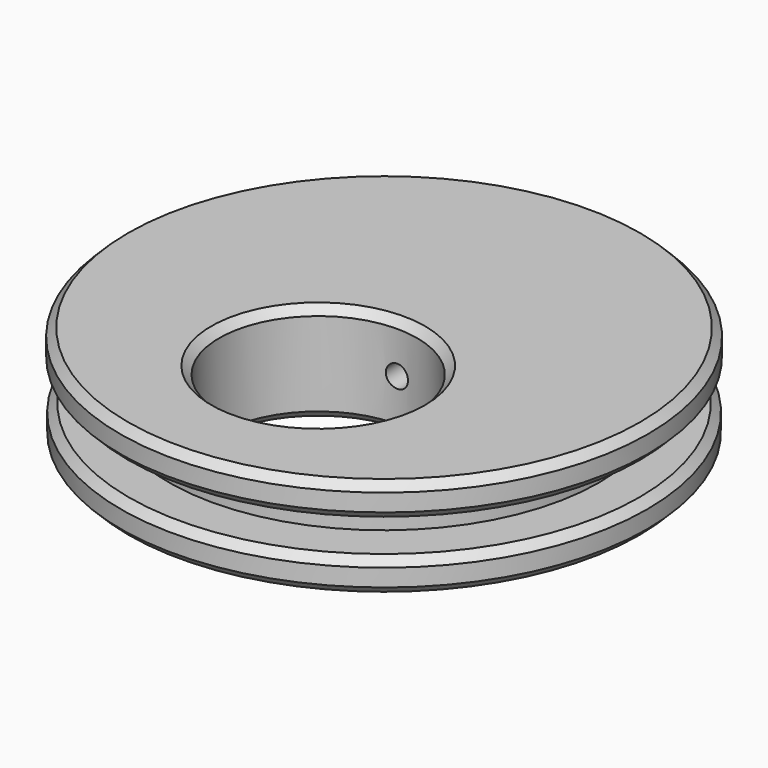
from build123d import *

# Parameters (mm, degrees)
F2_R     = 4.7625
F3_DEPTH = 5.08
F4_SIZE  = 0.381
F5_R     = 0.534423
F6_DEPTH = 25.4


with BuildPart() as f1:
    # F0 (on Front) → F1 (revolve)
    with BuildSketch(Plane.XZ):
        Polygon((0, 1.6002), (0, 0), (0, -3.2004), (12.659507, -3.2004), (12.659507, -1.6002), (10.346893, -1.6002), (10.346893, 0), (12.7, 0), (12.7, 1.6002), align=None)
    revolve(axis=Axis((0, 0, 0.8001), (0, 0, 1)))

    # F2 (on face) → F3 (cut)
    with BuildSketch(Plane.XY.offset(1.6002)):
        with Locations((0, -3.9624)):
            Circle(F2_R)
    extrude(amount=-F3_DEPTH, mode=Mode.SUBTRACT)

    # F4
    f4_edges = [f1.edges().sort_by_distance(p)[0] for p in [
        (-4.7625, -3.9624, 1.6002),
        (-12.7, 0, 1.6002),
        (-12.7, 0, 0),
        (-12.659507, 0, -1.6002),
        (-12.659507, 0, -3.2004),
        (-4.7625, -3.9624, -3.2004),
    ]]
    chamfer(f4_edges, length=F4_SIZE)

    # F5 (on Front) → F6 (cut)
    with BuildSketch(Plane.XZ):
        with Locations((0, -0.787439)):
            Circle(F5_R)
    extrude(amount=-F6_DEPTH, mode=Mode.SUBTRACT)


solid = f1.part
